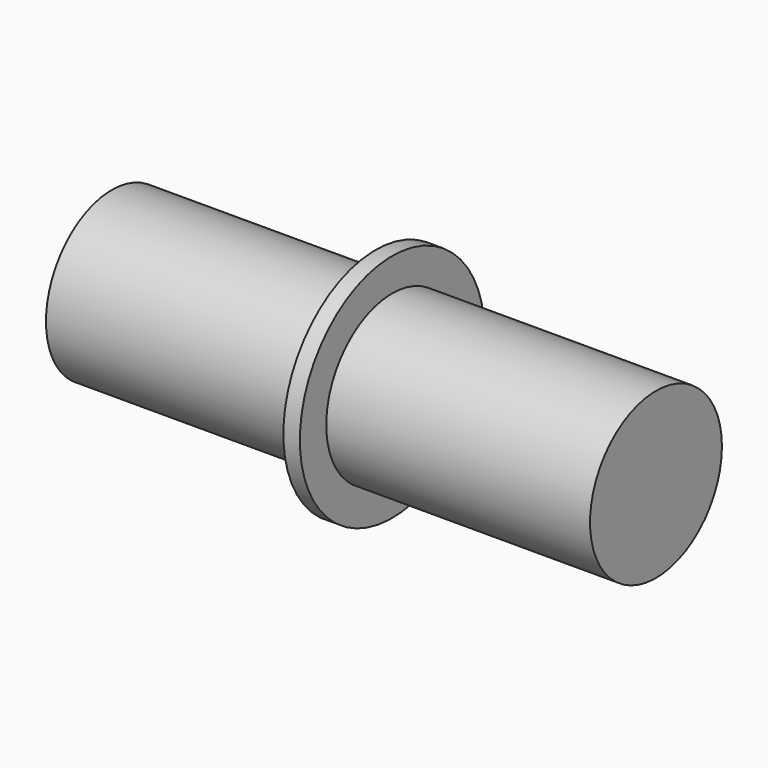
from build123d import *

# Parameters (mm, degrees)
SKETCH_R     = 3.5
PAD_DEPTH    = 0.5
SKETCH001_R  = 2.5
PAD001_DEPTH = 8
SKETCH002_R  = 2.5
PAD002_DEPTH = 8


with BuildPart() as part:
    # Sketch → Pad (new body)
    with BuildSketch(Plane.YZ):
        Circle(SKETCH_R)
    extrude(amount=PAD_DEPTH)

    # Sketch001 (on Face3 of Pad) → Pad001 (join)
    with BuildSketch(Plane.YZ.offset(0.5)):
        Circle(SKETCH001_R)
    extrude(amount=PAD001_DEPTH)

    # Sketch002 (on Face2 of Pad001) → Pad002 (join)
    with BuildSketch(Plane(origin=(0, 0, 0), x_dir=(0, 1, 0), z_dir=(-1, 0, 0))):
        Circle(SKETCH002_R)
    extrude(amount=PAD002_DEPTH)


solid = part.part
